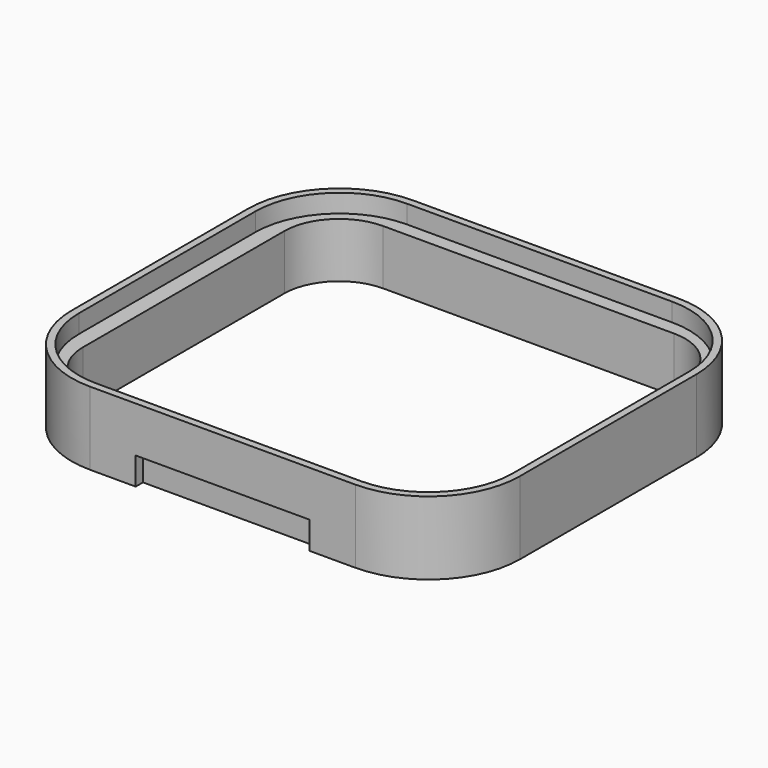
from build123d import *

# Parameters (mm, degrees)
F1_DEPTH = 8
F3_DEPTH = 8.001
F5_DEPTH = 2
F6_W     = 19
F6_H     = 1
F7_DEPTH = 3
F8_W     = 19
F8_H     = 1
F9_DEPTH = 3


with BuildPart() as f1:
    # F0 (on Top) → F1 (new body)
    with BuildSketch(Plane.XY):
        with BuildLine():
            Line((-14.5, -22.05), (14.5, -22.05))
            ThreePointArc((14.5, -22.05), (21.5710678119, -19.1210678119), (24.5, -12.05))
            Line((24.5, -12.05), (24.5, 12.05))
            ThreePointArc((24.5, 12.05), (21.5710678119, 19.1210678119), (14.5, 22.05))
            Line((14.5, 22.05), (-14.5, 22.05))
            ThreePointArc((-14.5, 22.05), (-21.5710678119, 19.1210678119), (-24.5, 12.05))
            Line((-24.5, 12.05), (-24.5, -12.05))
            ThreePointArc((-24.5, -12.05), (-21.5710678119, -19.1210678119), (-14.5, -22.05))
        make_face()
    extrude(amount=F1_DEPTH)

    # F2 (on face) → F3 (cut, through all)
    with BuildSketch(Plane.XY.offset(8)):
        with BuildLine():
            Line((-15.9, -19.75), (15.9, -19.75))
            ThreePointArc((15.9, -19.75), (20.1426406871, -17.9926406871), (21.9, -13.75))
            Line((21.9, -13.75), (21.9, 13.75))
            ThreePointArc((21.9, 13.75), (20.1426406871, 17.9926406871), (15.9, 19.75))
            Line((15.9, 19.75), (-15.9, 19.75))
            ThreePointArc((-15.9, 19.75), (-20.1426406871, 17.9926406871), (-21.9, 13.75))
            Line((-21.9, 13.75), (-21.9, -13.75))
            ThreePointArc((-21.9, -13.75), (-20.1426406871, -17.9926406871), (-15.9, -19.75))
        make_face()
    extrude(amount=-F3_DEPTH, mode=Mode.SUBTRACT)

    # F4 (on face) → F5 (cut)
    with BuildSketch(Plane.XY.offset(8)):
        with BuildLine():
            ThreePointArc((14.5, -21.25), (21.0053823869, -18.5553823869), (23.7, -12.05))
            Line((23.7, -12.05), (23.7, 12.05))
            ThreePointArc((23.7, 12.05), (21.0053823869, 18.5553823869), (14.5, 21.25))
            Line((14.5, 21.25), (-14.5, 21.25))
            ThreePointArc((-14.5, 21.25), (-21.0053823869, 18.5553823869), (-23.7, 12.05))
            Line((-23.7, 12.05), (-23.7, -12.05))
            ThreePointArc((-23.7, -12.05), (-21.0053823869, -18.5553823869), (-14.5, -21.25))
            Line((-14.5, -21.25), (14.5, -21.25))
        make_face()
    extrude(amount=-F5_DEPTH, mode=Mode.SUBTRACT)

    # F6 (on Top) → F7 (cut)
    with BuildSketch(Plane.XY):
        with Locations((0, -21.55)):
            Rectangle(F6_W, F6_H)
    extrude(amount=F7_DEPTH, mode=Mode.SUBTRACT)

    # F8 (on face) → F9 (cut)
    with BuildSketch(Plane(origin=(0, 0, 0), x_dir=(1, 0, 0), z_dir=(0, 0, -1))):
        with Locations((0, -21.55)):
            Rectangle(F8_W, F8_H)
    extrude(amount=-F9_DEPTH, mode=Mode.SUBTRACT)


solid = f1.part
